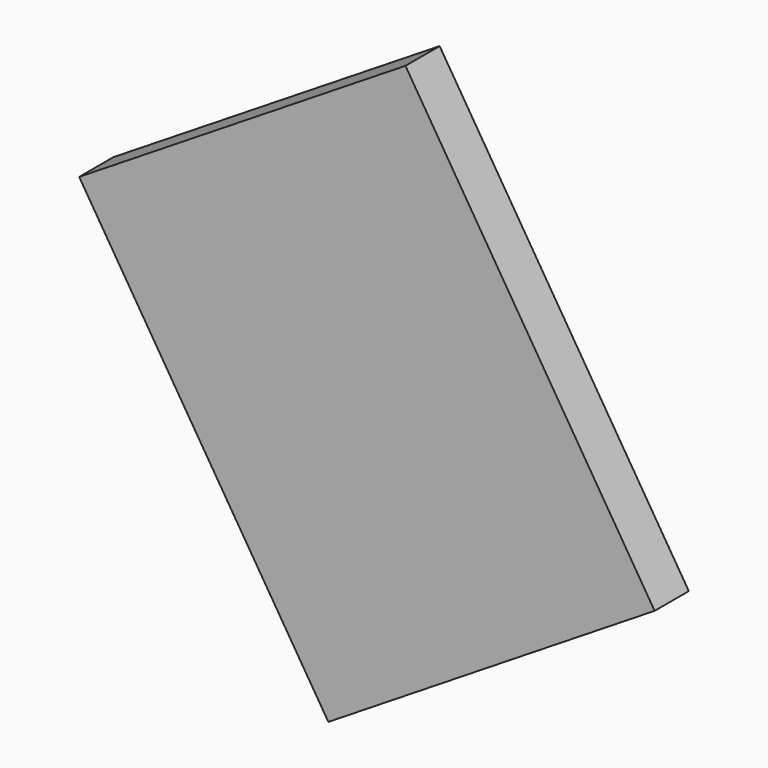
from build123d import *

# Parameters (mm, degrees)
CYLINDER062_R          = 0.5
CYLINDER062_DEPTH      = 0.01
BOX137_W               = 4.5
BOX137_H               = 5.5
BOX137_DEPTH           = 0.5
CUT061_ROLL_ANGLE      = 90
CUT061_PITCH_ANGLE     = 32
CUT061_PLACEMENT_ANGLE = -180


with BuildPart() as cylinder062:
    # Cylinder062 → Cylinder062 (new body)
    with BuildSketch(Plane(origin=(1, 4.5, 0.49), x_dir=(1, 0, 0), z_dir=(0, 0, 1))):
        Circle(CYLINDER062_R)
    extrude(amount=CYLINDER062_DEPTH)


with BuildPart() as obj1:
    # Box137 → Box137 (new body)
    with BuildSketch(Plane.XY):
        with Locations((2.25, 2.75)):
            Rectangle(BOX137_W, BOX137_H)
    extrude(amount=BOX137_DEPTH)

    # Cut061: cut Cylinder062
    add(cylinder062.part, mode=Mode.SUBTRACT)


with BuildPart() as obj1_1:
    # Cut061 roll: moved
    add(obj1.part.rotate(Axis((0, 0, 0), (1, 0, 0)), CUT061_ROLL_ANGLE))


with BuildPart() as obj1_2:
    # Cut061 pitch: moved
    add(obj1_1.part.rotate(Axis((0, 0, 0), (0, 1, 0)), CUT061_PITCH_ANGLE))


with BuildPart() as obj1_3:
    # Cut061 placement: moved
    add(obj1_2.part.moved(Location((-2.69879, 2.19, 52.517519))).rotate(Axis((-2.69879, 2.19, 52.517519), (0, 0, 1)), CUT061_PLACEMENT_ANGLE))


solid = obj1_3.part
